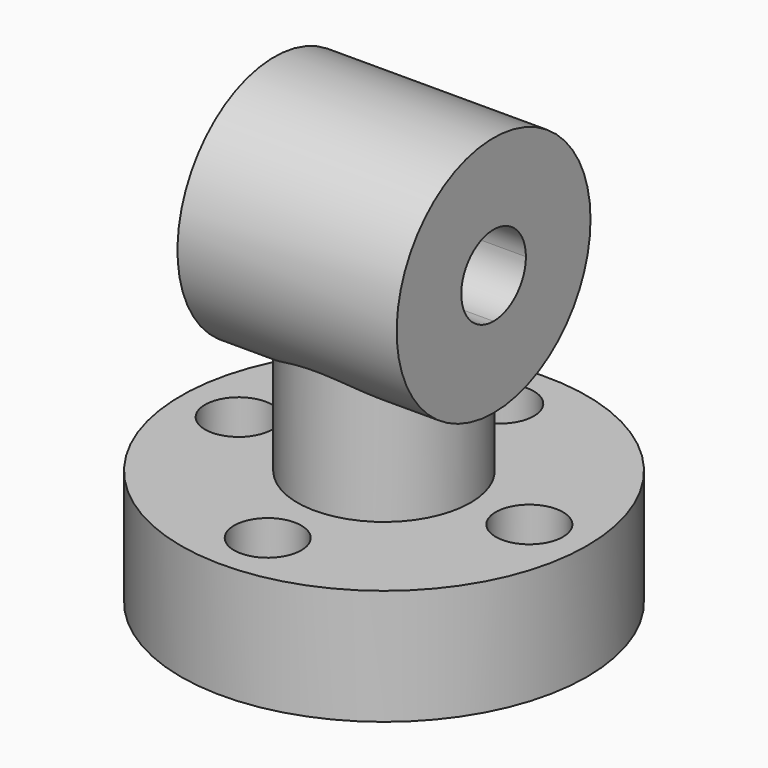
from build123d import *

# Parameters (mm, degrees)
F0_R     = 11.176
F0_R_2   = 1.85
F1_DEPTH = 6.35
F2_R     = 4.7625
F3_DEPTH = 8.255
F5_DEPTH = 6.0325


with BuildPart() as f1:
    # F0 (on Top) → F1 (new body)
    with BuildSketch(Plane.XY):
        Circle(F0_R)
        with Locations((0, -8)):
            Circle(F0_R_2, mode=Mode.SUBTRACT)
        with Locations((-8, 0)):
            Circle(F0_R_2, mode=Mode.SUBTRACT)
        with Locations((8, 0)):
            Circle(F0_R_2, mode=Mode.SUBTRACT)
        with BuildLine():
            ThreePointArc((0, 6.15), (-1.308148, 9.308148), (1.85, 8))
            ThreePointArc((1.85, 8), (1.308148, 6.691852), (0, 6.15))
        make_face(mode=Mode.SUBTRACT)
    extrude(amount=F1_DEPTH)

    # F2 (on face) → F3 (join)
    with BuildSketch(Plane.XY.offset(6.35)):
        Circle(F2_R)
    extrude(amount=F3_DEPTH)

    # F4 (on Right) → F5 (join, symmetric)
    with BuildSketch(Plane.YZ):
        with BuildLine():
            ThreePointArc((6.6675, 17.78), (-4.714634, 22.494634), (0, 11.1125))
            ThreePointArc((0, 11.1125), (4.714634, 13.065366), (6.6675, 17.78))
        make_face()
        with BuildLine():
            ThreePointArc((2.2225, 17.78), (1.571545, 16.208455), (0, 15.5575))
            ThreePointArc((0, 15.5575), (-1.571545, 19.351545), (2.2225, 17.78))
        make_face(mode=Mode.SUBTRACT)
    extrude(amount=F5_DEPTH, both=True)


solid = f1.part
